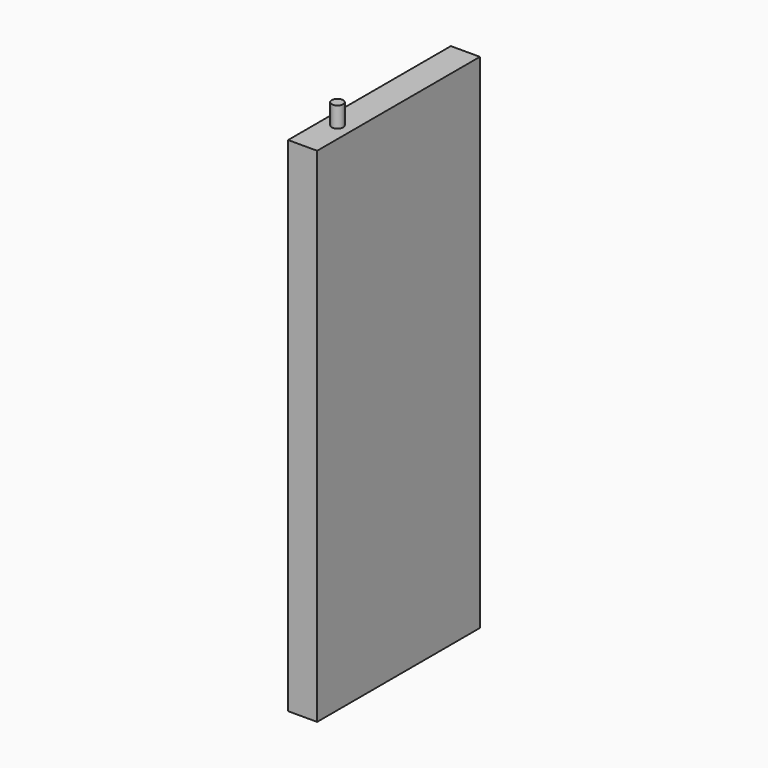
from build123d import *

# Parameters (mm, degrees)
F0_W     = 88.9
F0_H     = 219.71
F1_DEPTH = 12.7
F2_R     = 2.49555
F3_DEPTH = 8.89


with BuildPart() as f1:
    # F0 (on Right) → F1 (new body)
    with BuildSketch(Plane.YZ):
        with Locations((8.052242, 23.378949)):
            Rectangle(F0_W, F0_H)
    extrude(amount=F1_DEPTH)

    # F2 (on face) → F3 (join)
    with BuildSketch(Plane.XY.offset(133.233949)):
        with Locations((6.35, -17.347758)):
            Circle(F2_R)
    extrude(amount=F3_DEPTH)


solid = f1.part
